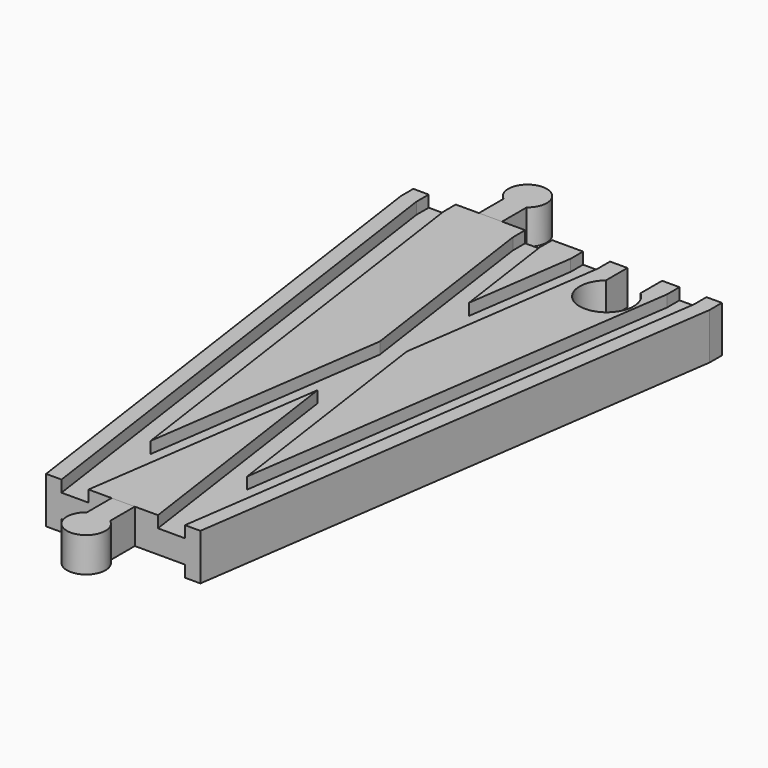
from build123d import *

# Parameters (mm, degrees)
SKETCH004_W       = 32
SKETCH004_H       = 3
SKETCH005_W       = 7
SKETCH005_H       = 3
SKETCH006_W       = 7
SKETCH006_H       = 3
POCKET_DEPTH      = 6.001
POCKET_DEPTH_BACK = -6.001
PAD001_DEPTH      = 6
PAD001_DEPTH_BACK = 3
PAD_DEPTH         = 6
PAD_DEPTH_BACK    = 3


with BuildPart() as body:
    # AdditivePipe: sweep along a path in Sketch
    with BuildLine(Plane.XY) as additivepipe_path:
        Line((-20, 144), (-20, 140))
        Line((-20, 140), (0, 0))
    # Sketch002 → AdditivePipe (sweep)
    with BuildSketch(Plane.XZ):
        Polygon((-20, 6), (-20, -6), (-16, -6), (-16, -3), (-9, -3), (9, -3), (16, -3), (16, -6), (20, -6), (20, 6), (16, 6), (16, 3), (9, 3), (9, 6), (-9, 6), (-9, 3), (-16, 3), (-16, 6), align=None)
    sweep(path=additivepipe_path.line)

    # AdditivePipe001: sweep along a path in Sketch001
    with BuildLine(Plane.XY) as additivepipe001_path:
        Line((20, 144), (20, 140))
        Line((20, 140), (0, 0))
    # Sketch002 → AdditivePipe001 (sweep)
    with BuildSketch(Plane.XZ):
        Polygon((-20, 6), (-20, -6), (-16, -6), (-16, -3), (-9, -3), (9, -3), (16, -3), (16, -6), (20, -6), (20, 6), (16, 6), (16, 3), (9, 3), (9, 6), (-9, 6), (-9, 3), (-16, 3), (-16, 6), align=None)
    sweep(path=additivepipe001_path.line)

    # SubtractivePipe: sweep along a path in Sketch
    with BuildLine(Plane.XY) as subtractivepipe_path:
        Line((-20, 144), (-20, 140))
        Line((-20, 140), (0, 0))
    # Sketch004 → SubtractivePipe (sweep, cut)
    with BuildSketch(Plane.XZ):
        with Locations((0, -4.5)):
            Rectangle(SKETCH004_W, SKETCH004_H)
    sweep(path=subtractivepipe_path.line, mode=Mode.SUBTRACT)

    # SubtractivePipe001: sweep along a path in Sketch001
    with BuildLine(Plane.XY) as subtractivepipe001_path:
        Line((20, 144), (20, 140))
        Line((20, 140), (0, 0))
    # Sketch004 → SubtractivePipe001 (sweep, cut)
    with BuildSketch(Plane.XZ):
        with Locations((0, -4.5)):
            Rectangle(SKETCH004_W, SKETCH004_H)
    sweep(path=subtractivepipe001_path.line, mode=Mode.SUBTRACT)

    # SubtractivePipe002: sweep along a path in Sketch
    with BuildLine(Plane.XY) as subtractivepipe002_path:
        Line((-20, 144), (-20, 140))
        Line((-20, 140), (0, 0))
    # Sketch005 → SubtractivePipe002 (sweep, cut)
    with BuildSketch(Plane.XZ):
        with Locations((-12.5, 4.5)):
            Rectangle(SKETCH005_W, SKETCH005_H)
    sweep(path=subtractivepipe002_path.line, mode=Mode.SUBTRACT)

    # SubtractivePipe003: sweep along a path in Sketch001
    with BuildLine(Plane.XY) as subtractivepipe003_path:
        Line((20, 144), (20, 140))
        Line((20, 140), (0, 0))
    # Sketch005 → SubtractivePipe003 (sweep, cut)
    with BuildSketch(Plane.XZ):
        with Locations((-12.5, 4.5)):
            Rectangle(SKETCH005_W, SKETCH005_H)
    sweep(path=subtractivepipe003_path.line, mode=Mode.SUBTRACT)

    # SubtractivePipe004: sweep along a path in Sketch
    with BuildLine(Plane.XY) as subtractivepipe004_path:
        Line((-20, 144), (-20, 140))
        Line((-20, 140), (0, 0))
    # Sketch006 → SubtractivePipe004 (sweep, cut)
    with BuildSketch(Plane.XZ):
        with Locations((12.5, 4.5)):
            Rectangle(SKETCH006_W, SKETCH006_H)
    sweep(path=subtractivepipe004_path.line, mode=Mode.SUBTRACT)

    # SubtractivePipe005: sweep along a path in Sketch001
    with BuildLine(Plane.XY) as subtractivepipe005_path:
        Line((20, 144), (20, 140))
        Line((20, 140), (0, 0))
    # Sketch006 → SubtractivePipe005 (sweep, cut)
    with BuildSketch(Plane.XZ):
        with Locations((12.5, 4.5)):
            Rectangle(SKETCH006_W, SKETCH006_H)
    sweep(path=subtractivepipe005_path.line, mode=Mode.SUBTRACT)

    # Sketch008 → Pocket (cut, two sides)
    with BuildSketch(Plane.XY) as pocket_sk:
        with BuildLine():
            Line((15.5, 144), (24.5, 144))
            Line((24.5, 144), (24.5, 137))
            ThreePointArc((15.5, 137), (20, 124.638097), (24.5, 137))
            Line((15.5, 144), (15.5, 137))
        make_face()
    extrude(amount=-POCKET_DEPTH, mode=Mode.SUBTRACT)
    extrude(pocket_sk.sketch, amount=-POCKET_DEPTH_BACK, mode=Mode.SUBTRACT)


with BuildPart() as male2:
    # Sketch010 → Pad001 (new body, two sides)
    with BuildSketch(Plane.XY) as pad001_sk:
        with BuildLine():
            Line((-23, 144), (-17, 144))
            Line((-17, 144), (-17, 152))
            ThreePointArc((-17, 152), (-20, 161), (-23, 152))
            Line((-23, 144), (-23, 152))
        make_face()
    extrude(amount=PAD001_DEPTH)
    extrude(pad001_sk.sketch, amount=-PAD001_DEPTH_BACK)


with BuildPart() as body001:
    # Sketch009 → Pad (new body, two sides)
    with BuildSketch(Plane.XY) as pad_sk:
        with BuildLine():
            Line((-3, 0), (3, 0))
            Line((3, 0), (3, -8))
            ThreePointArc((-3, -8), (0, -17), (3, -8))
            Line((-3, 0), (-3, -8))
        make_face()
    extrude(amount=PAD_DEPTH)
    extrude(pad_sk.sketch, amount=-PAD_DEPTH_BACK)


solid = Compound([body.part, male2.part, body001.part])
